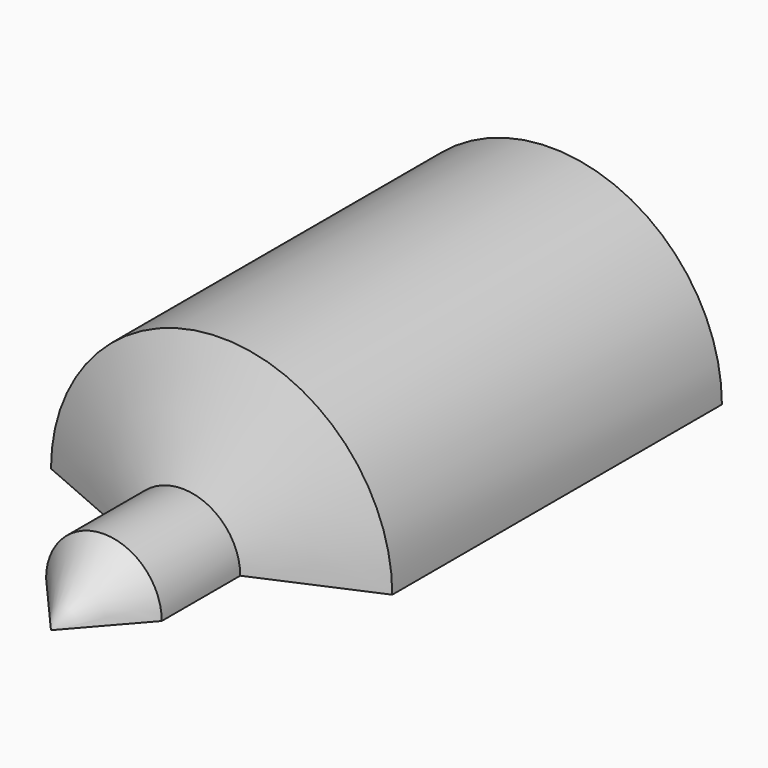
from build123d import *

# Parameters (mm, degrees)
F0_W     = 254
F0_H     = 254
F1_DEPTH = 82.87358
F4_R     = 13.060022
F5_DEPTH = 44.433


with BuildPart() as f1:
    # F0 (on Top) → F1 (new body)
    with BuildSketch(Plane.XY):
        Rectangle(F0_W, F0_H)
    extrude(amount=F1_DEPTH)


with BuildPart() as f3:
    # F2 (on Right) → F3 (revolve)
    with BuildSketch(Plane.YZ):
        Polygon((-27.195146, 7.24093), (-35.484381, 0), (42.802874, 0), (42.802874, 21.363337), (-8.774616, 21.363337), (-14.914793, 7.24093), align=None)
    revolve(axis=Axis((0, 3.659246, 0), (0, -1, 0)))


with BuildPart() as f5_tool:
    # F4 (on face) → F5 (new body)
    with BuildSketch(Plane(origin=(0, 42.802874, 0), x_dir=(-1, 0, 0), z_dir=(0, 1, 0))):
        Circle(F4_R)
    extrude(amount=-F5_DEPTH)


with BuildPart() as f1_1:
    add(f1.part)

    # F5: cut by f5_tool
    add(f5_tool.part, mode=Mode.SUBTRACT)


with BuildPart() as f3_1:
    add(f3.part)

    # F5: cut by f5_tool
    add(f5_tool.part, mode=Mode.SUBTRACT)


with BuildPart() as f1_2:
    add(f1_1.part)

    # F6: intersect F3
    add(f3_1.part, mode=Mode.INTERSECT)


solid = f1_2.part
